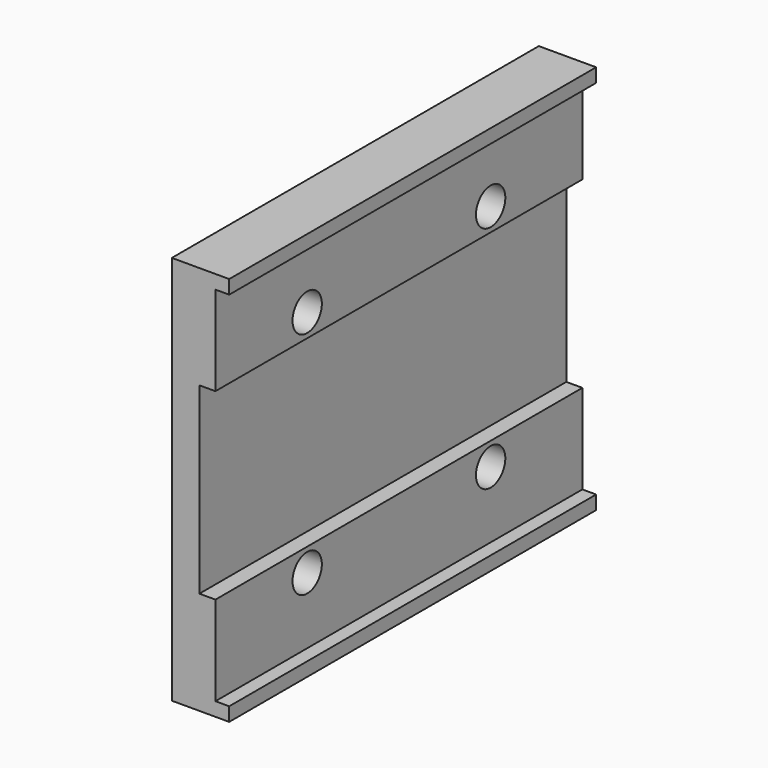
from build123d import *

# Parameters (mm, degrees)
F1_DEPTH = 100
F2_R     = 4
F3_DEPTH = 25


with BuildPart() as f1:
    # F0 (on Front) → F1 (new body)
    with BuildSketch(Plane.XZ):
        Polygon((-6.551726, 42.5), (-19.051726, 42.5), (-19.051726, 0), (-19.051726, -42.5), (-6.551726, -42.5), (-6.551726, -39.5), (-9.551726, -39.5), (-9.551726, -20), (-13.051726, -20), (-13.051726, 0), (-13.051726, 20), (-9.551726, 20), (-9.551726, 39.5), (-6.551726, 39.5), align=None)
    extrude(amount=F1_DEPTH)

    # F2 (on face) → F3 (cut)
    with BuildSketch(Plane(origin=(-19.051726, 0, 0), x_dir=(0, -1, 0), z_dir=(-1, 0, 0))):
        with Locations((25, 25)):
            Circle(F2_R)
        with Locations((75, 25)):
            Circle(F2_R)
        with Locations((25, -25)):
            Circle(F2_R)
        with Locations((75, -25)):
            Circle(F2_R)
    extrude(amount=-F3_DEPTH, mode=Mode.SUBTRACT)


solid = f1.part
